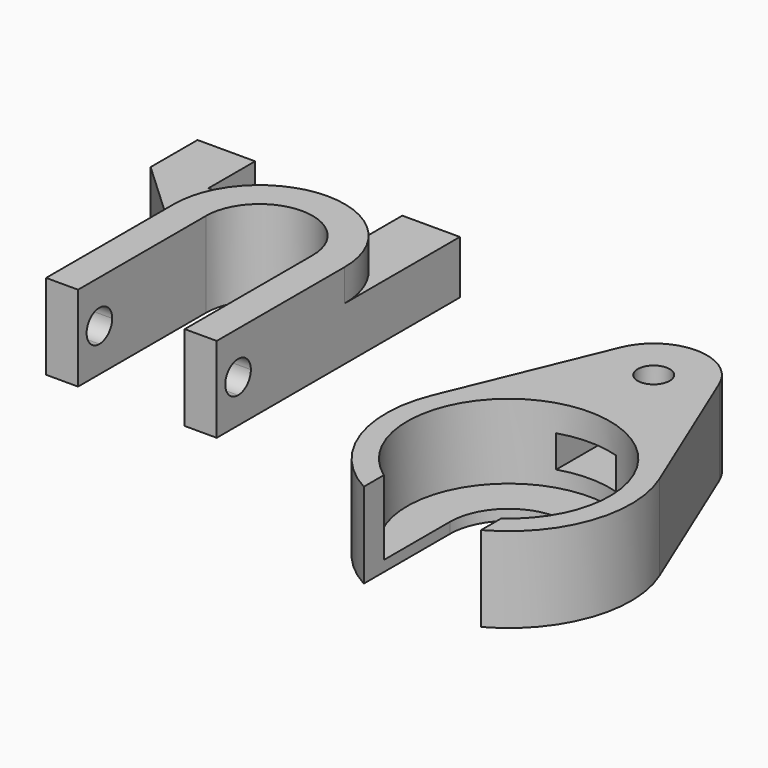
from build123d import *

# Parameters (mm, degrees)
F1_DEPTH  = 8
F2_DEPTH  = 5
F3_R      = 1.2
F4_DEPTH  = 4
F6_DEPTH  = 20
F7_R      = 1.5
F8_DEPTH  = 8
F9_DEPTH  = 1
F10_W     = 5.6
F10_H     = 3
F11_DEPTH = 31.2


with BuildPart() as f1:
    # F0 (on Top) → F1 (new body)
    with BuildSketch(Plane.XY):
        with BuildLine():
            ThreePointArc((-19.1990765111, 19.4846409), (-14.1990765111, 24.4846409), (-9.1990765111, 19.4846409))
            Line((-9.1990765111, 19.4846409), (-9.1990765111, 4.4846409))
            Line((-9.1990765111, 4.4846409), (-6.1990765111, 4.4846409))
            Line((-6.1990765111, 4.4846409), (-6.1990765111, 19.4846409))
            ThreePointArc((-6.1990765111, 19.4846409), (-8.5422222616, 25.1414951495), (-14.1990765111, 27.4846409))
            ThreePointArc((-14.1990765111, 27.4846409), (-19.8559307606, 25.1414951495), (-22.1990765111, 19.4846409))
            Line((-22.1990765111, 19.4846409), (-22.1990765111, 4.4846409))
            Line((-22.1990765111, 4.4846409), (-19.1990765111, 4.4846409))
            Line((-19.1990765111, 4.4846409), (-19.1990765111, 19.4846409))
        make_face()
    extrude(amount=F1_DEPTH)

    # F0 (on Top) → F2 (join)
    with BuildSketch(Plane.XY):
        with BuildLine():
            Line((-30.7990765111, 27.4846409), (-22.1990765111, 19.4846409))
            ThreePointArc((-22.1990765111, 19.4846409), (-19.8559307606, 25.1414951495), (-14.1990765111, 27.4846409))
            Line((-14.1990765111, 27.4846409), (-25.3990765111, 27.4846409))
            Line((-25.3990765111, 27.4846409), (-25.3990765111, 32.9846409))
            Line((-25.3990765111, 32.9846409), (-28.0990765111, 32.9846409))
            Line((-28.0990765111, 32.9846409), (-30.7990765111, 32.9846409))
            Line((-30.7990765111, 32.9846409), (-30.7990765111, 27.4846409))
        make_face()
        with BuildLine():
            ThreePointArc((-14.1990765111, 27.4846409), (-8.5422222616, 25.1414951495), (-6.1990765111, 19.4846409))
            Line((-6.1990765111, 19.4846409), (-6.1990765111, 32.9846409))
            Line((-6.1990765111, 32.9846409), (-8.8990765111, 32.9846409))
            Line((-8.8990765111, 32.9846409), (-11.5990765111, 32.9846409))
            Line((-11.5990765111, 32.9846409), (-11.5990765111, 27.4846409))
            Line((-11.5990765111, 27.4846409), (-14.1990765111, 27.4846409))
        make_face()
        with BuildLine():
            Line((-30.7990765111, 27.4846409), (-22.1990765111, 19.4846409))
            ThreePointArc((-22.1990765111, 19.4846409), (-19.8559307606, 25.1414951495), (-14.1990765111, 27.4846409))
            Line((-14.1990765111, 27.4846409), (-25.3990765111, 27.4846409))
            Line((-25.3990765111, 27.4846409), (-25.3990765111, 32.9846409))
            Line((-25.3990765111, 32.9846409), (-28.0990765111, 32.9846409))
            Line((-28.0990765111, 32.9846409), (-30.7990765111, 32.9846409))
            Line((-30.7990765111, 32.9846409), (-30.7990765111, 27.4846409))
        make_face()
    extrude(amount=F2_DEPTH)

    # F3 (on face) → F4 (cut)
    with BuildSketch(Plane(origin=(0, 32.9846409, 0), x_dir=(-1, 0, 0), z_dir=(0, 1, 0))):
        with Locations((8.8990765111, 2.5)):
            Circle(F3_R)
        with BuildLine():
            ThreePointArc((29.2990765111, 2.5), (28.0990765111, 3.7), (26.8990765111, 2.5))
            ThreePointArc((26.8990765111, 2.5), (28.0990765111, 1.3), (29.2990765111, 2.5))
        make_face()
    extrude(amount=-F4_DEPTH, mode=Mode.SUBTRACT)

    # F5 (on face) → F6 (cut)
    with BuildSketch(Plane.YZ.offset(-6.1990765111)):
        with BuildLine():
            ThreePointArc((6.9846409, 2.5), (8.0453010718, 2.9393398282), (8.4846409, 4))
            ThreePointArc((8.4846409, 4), (5.9239807283, 5.0606601718), (6.9846409, 2.5))
        make_face()
    extrude(amount=-F6_DEPTH, mode=Mode.SUBTRACT)


with BuildPart() as f8:
    # F7 (on Top) → F8 (new body)
    with BuildSketch(Plane.XY):
        with BuildLine():
            ThreePointArc((11.524875439, 7.6547143954), (22.151919926, 14.7563742904), (32.7772515266, 7.6521518718))
            Line((32.7772515266, 7.6521518718), (26.7728953641, 22.1675819818))
            ThreePointArc((26.7728953641, 22.1675819818), (22.1531859726, 25.2563743377), (17.5327318478, 22.1686961225))
            Line((17.5327318478, 22.1686961225), (11.524875439, 7.6547143954))
        make_face()
        with Locations((22.1525830933, 20.256374374)):
            Circle(F7_R, mode=Mode.SUBTRACT)
        with BuildLine():
            ThreePointArc((16.6505333036, -4.4895923184), (22.1505333036, 12.756374374), (27.6505333036, -4.4895923184))
            Line((27.6505333036, -4.4895923184), (27.6505333036, -6.8431305643))
            ThreePointArc((27.6505333036, -6.8431305643), (32.9923995353, -0.5781968684), (32.7772515266, 7.6521518718))
            ThreePointArc((32.7772515266, 7.6521518718), (22.151919926, 14.7563742904), (11.524875439, 7.6547143954))
            ThreePointArc((11.524875439, 7.6547143954), (11.308204794, -0.5768895732), (16.6505333036, -6.8431305643))
            Line((16.6505333036, -6.8431305643), (16.6505333036, -4.4895923184))
        make_face()
    extrude(amount=F8_DEPTH)

    # F7 (on Top) → F9 (join)
    with BuildSketch(Plane.XY):
        with BuildLine():
            Line((27.6505333036, 3.256374374), (27.6505333036, -4.4895923184))
            ThreePointArc((27.6505333036, -4.4895923184), (22.1505333036, 12.756374374), (16.6505333036, -4.4895923184))
            Line((16.6505333036, -4.4895923184), (16.6505333036, 3.256374374))
            ThreePointArc((16.6505333036, 3.256374374), (22.1505333036, 8.756374374), (27.6505333036, 3.256374374))
        make_face()
    extrude(amount=F9_DEPTH)

    # F10 (on Front) → F11 (cut)
    with BuildSketch(Plane.XZ):
        with Locations((22.1528953641, 4)):
            Rectangle(F10_W, F10_H)
    extrude(amount=-F11_DEPTH, mode=Mode.SUBTRACT)


solid = Compound([f1.part, f8.part])
